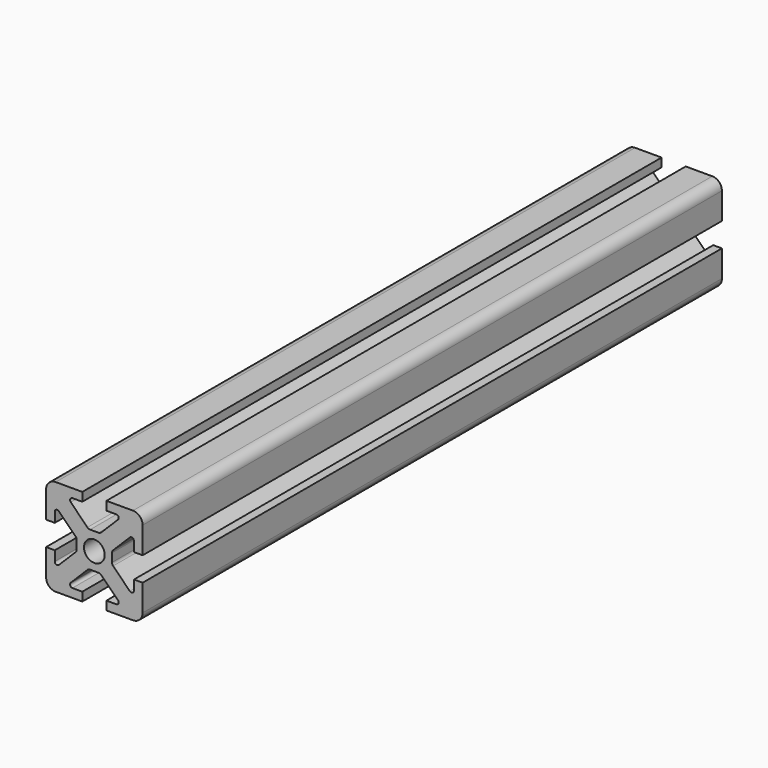
from build123d import *

# Parameters (mm, degrees)
F0_R     = 2.15
F1_DEPTH = 150
F2_R     = 2
F3_R     = 0.5
F4_R     = 0.8


with BuildPart() as f1:
    # F0 (on Front) → F1 (new body)
    with BuildSketch(Plane.XZ):
        Polygon((-2.5, 10), (-10, 10), (-10, 2.5), (-8.2, 2.5), (-8.2, 5.75), (-3.65, 1.2), (-3.65, 0), (-3.65, -1.2), (-8.2, -5.75), (-8.2, -2.5), (-10, -2.5), (-10, -10), (-2.5, -10), (-2.5, -8.2), (-5.75, -8.2), (-1.2, -3.65), (0, -3.65), (1.2, -3.65), (5.75, -8.2), (2.5, -8.2), (2.5, -10), (10, -10), (10, -2.5), (8.2, -2.5), (8.2, -5.75), (3.65, -1.2), (3.65, 0), (3.65, 1.2), (8.2, 5.75), (8.2, 2.5), (10, 2.5), (10, 10), (2.5, 10), (2.5, 8.2), (5.75, 8.2), (1.2, 3.65), (0, 3.65), (-1.2, 3.65), (-5.75, 8.2), (-2.5, 8.2), align=None)
        Circle(F0_R, mode=Mode.SUBTRACT)
    extrude(amount=F1_DEPTH)

    # F2
    f2_edges = [f1.edges().sort_by_distance(p)[0] for p in [
        (-10, -75, 10),
        (10, -75, 10),
        (10, -75, -10),
        (-10, -75, -10),
    ]]
    fillet(f2_edges, radius=F2_R)

    # F3
    f3_edges = [f1.edges().sort_by_distance(p)[0] for p in [
        (-8.2, -75, -5.75),
        (8.2, -75, -5.75),
        (5.75, -75, 8.2),
        (5.75, -75, -8.2),
        (-5.75, -75, 8.2),
        (-5.75, -75, -8.2),
        (8.2, -75, 5.75),
        (-8.2, -75, 5.75),
    ]]
    fillet(f3_edges, radius=F3_R)

    # F4
    f4_edges = [f1.edges().sort_by_distance(p)[0] for p in [
        (-1.2, -75, 3.65),
        (3.65, -75, -1.2),
        (1.2, -75, 3.65),
        (-3.65, -75, 1.2),
        (-3.65, -75, -1.2),
        (1.2, -75, -3.65),
        (-1.2, -75, -3.65),
        (3.65, -75, 1.2),
    ]]
    fillet(f4_edges, radius=F4_R)


solid = f1.part
